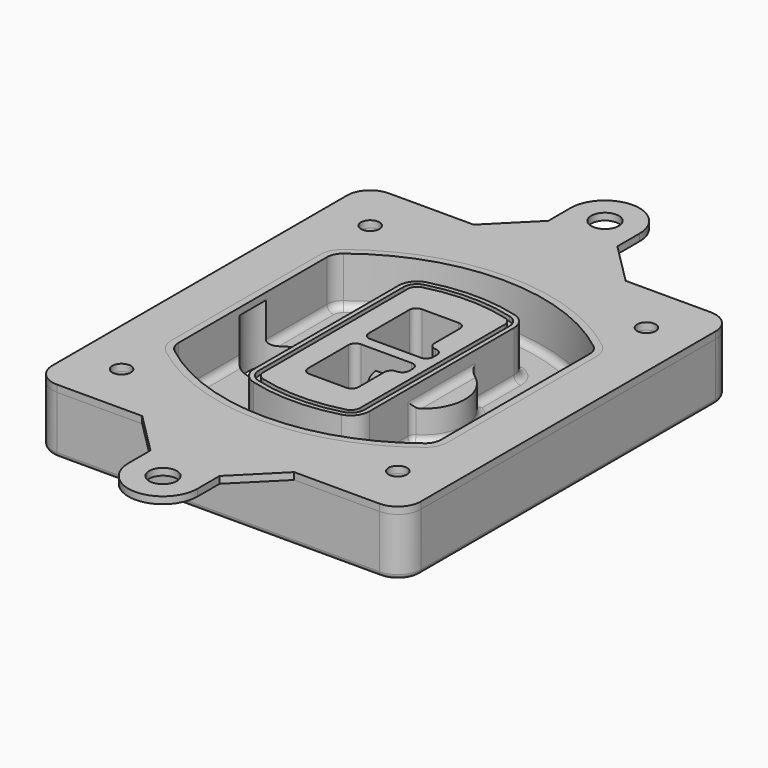
from build123d import *

# Parameters (mm, degrees)
F0_R      = 4
F1_DEPTH  = 25
F2_DEPTH  = 3
F3_DEPTH  = 18
F5_DEPTH  = 21
F6_DEPTH  = 2
F8_DEPTH  = 20
F9_DEPTH  = 16
F10_DEPTH = 25
F7_R      = 6
F7_R_2    = 4
F11_DEPTH = 6
F13_DEPTH = 9
F14_R     = 3
F15_R     = 2
F16_R     = 6
F16_R_2   = 4
F17_DEPTH = 3


with BuildPart() as f1:
    # F0 (on Top) → F1 (new body)
    with BuildSketch(Plane.XY):
        with BuildLine():
            ThreePointArc((-80, -80), (-77.0710678119, -87.0710678119), (-70, -90))
            Line((-70, -90), (70, -90))
            ThreePointArc((70, -90), (77.0710678119, -87.0710678119), (80, -80))
            Line((80, -80), (80, 80))
            ThreePointArc((80, 80), (77.0710678119, 87.0710678119), (70, 90))
            Line((70, 90), (-70, 90))
            ThreePointArc((-70, 90), (-77.0710678119, 87.0710678119), (-80, 80))
            Line((-80, 80), (-80, -80))
        make_face()
        with Locations((-60, -67.5)):
            Circle(F0_R, mode=Mode.SUBTRACT)
        with Locations((60, -67.5)):
            Circle(F0_R, mode=Mode.SUBTRACT)
        with Locations((-60, 67.5)):
            Circle(F0_R, mode=Mode.SUBTRACT)
        with BuildLine():
            ThreePointArc((-64, 40.2934422872), (-62.5820384798, 46.4328484224), (-58.6153846154, 51.3286200352))
            ThreePointArc((-58.6153846154, 51.3286200352), (0, 71.5), (58.6153846154, 51.3286200352))
            ThreePointArc((58.6153846154, 51.3286200352), (62.5820384798, 46.4328484224), (64, 40.2934422872))
            Line((64, 40.2934422872), (64, -40.2934422872))
            ThreePointArc((64, -40.2934422872), (62.5820384798, -46.4328484224), (58.6153846154, -51.3286200352))
            ThreePointArc((58.6153846154, -51.3286200352), (0, -71.5), (-58.6153846154, -51.3286200352))
            ThreePointArc((-58.6153846154, -51.3286200352), (-62.5820384798, -46.4328484224), (-64, -40.2934422872))
            Line((-64, -40.2934422872), (-64, 40.2934422872))
        make_face(mode=Mode.SUBTRACT)
        with Locations((60, 67.5)):
            Circle(F0_R, mode=Mode.SUBTRACT)
        with BuildLine():
            ThreePointArc((58.6153846154, 51.3286200352), (0, 71.5), (-58.6153846154, 51.3286200352))
            ThreePointArc((-58.6153846154, 51.3286200352), (-62.5820384798, 46.4328484224), (-64, 40.2934422872))
            Line((-64, 40.2934422872), (-64, -40.2934422872))
            ThreePointArc((-64, -40.2934422872), (-62.5820384798, -46.4328484224), (-58.6153846154, -51.3286200352))
            ThreePointArc((-58.6153846154, -51.3286200352), (0, -71.5), (58.6153846154, -51.3286200352))
            ThreePointArc((58.6153846154, -51.3286200352), (62.5820384798, -46.4328484224), (64, -40.2934422872))
            Line((64, -40.2934422872), (64, 40.2934422872))
            ThreePointArc((64, 40.2934422872), (62.5820384798, 46.4328484224), (58.6153846154, 51.3286200352))
        make_face()
        with BuildLine():
            Line((-60, -40.2934422872), (-60, 40.2934422872))
            ThreePointArc((-60, 40.2934422872), (-58.9871703427, 44.6787323838), (-56.1538461538, 48.1757121072))
            ThreePointArc((-56.1538461538, 48.1757121072), (0, 67.5), (56.1538461538, 48.1757121072))
            ThreePointArc((56.1538461538, 48.1757121072), (58.9871703427, 44.6787323838), (60, 40.2934422872))
            Line((60, 40.2934422872), (60, -40.2934422872))
            ThreePointArc((60, -40.2934422872), (58.9871703427, -44.6787323838), (56.1538461538, -48.1757121072))
            ThreePointArc((56.1538461538, -48.1757121072), (0, -67.5), (-56.1538461538, -48.1757121072))
            ThreePointArc((-56.1538461538, -48.1757121072), (-58.9871703427, -44.6787323838), (-60, -40.2934422872))
        make_face(mode=Mode.SUBTRACT)
        with BuildLine():
            ThreePointArc((-56.1538461538, 48.1757121072), (-58.9871703427, 44.6787323838), (-60, 40.2934422872))
            Line((-60, 40.2934422872), (-60, -40.2934422872))
            ThreePointArc((-60, -40.2934422872), (-58.9871703427, -44.6787323838), (-56.1538461538, -48.1757121072))
            ThreePointArc((-56.1538461538, -48.1757121072), (0, -67.5), (56.1538461538, -48.1757121072))
            ThreePointArc((56.1538461538, -48.1757121072), (58.9871703427, -44.6787323838), (60, -40.2934422872))
            Line((60, -40.2934422872), (60, 40.2934422872))
            ThreePointArc((60, 40.2934422872), (58.9871703427, 44.6787323838), (56.1538461538, 48.1757121072))
            ThreePointArc((56.1538461538, 48.1757121072), (0, 67.5), (-56.1538461538, 48.1757121072))
        make_face()
        with BuildLine():
            ThreePointArc((54.3076923077, 45.8110311612), (56.2910192399, 43.3631453548), (57, 40.2934422872))
            Line((57, 40.2934422872), (57, -40.2934422872))
            ThreePointArc((57, -40.2934422872), (56.2910192399, -43.3631453548), (54.3076923077, -45.8110311612))
            ThreePointArc((54.3076923077, -45.8110311612), (0, -64.5), (-54.3076923077, -45.8110311612))
            ThreePointArc((-54.3076923077, -45.8110311612), (-56.2910192399, -43.3631453548), (-57, -40.2934422872))
            Line((-57, -40.2934422872), (-57, 40.2934422872))
            ThreePointArc((-57, 40.2934422872), (-56.2910192399, 43.3631453548), (-54.3076923077, 45.8110311612))
            ThreePointArc((-54.3076923077, 45.8110311612), (0, 64.5), (54.3076923077, 45.8110311612))
        make_face(mode=Mode.SUBTRACT)
        with BuildLine():
            Line((57, -40.2934422872), (57, 40.2934422872))
            ThreePointArc((57, 40.2934422872), (56.2910192399, 43.3631453548), (54.3076923077, 45.8110311612))
            ThreePointArc((54.3076923077, 45.8110311612), (0, 64.5), (-54.3076923077, 45.8110311612))
            ThreePointArc((-54.3076923077, 45.8110311612), (-56.2910192399, 43.3631453548), (-57, 40.2934422872))
            Line((-57, 40.2934422872), (-57, -40.2934422872))
            ThreePointArc((-57, -40.2934422872), (-56.2910192399, -43.3631453548), (-54.3076923077, -45.8110311612))
            ThreePointArc((-54.3076923077, -45.8110311612), (0, -64.5), (54.3076923077, -45.8110311612))
            ThreePointArc((54.3076923077, -45.8110311612), (56.2910192399, -43.3631453548), (57, -40.2934422872))
        make_face()
    extrude(amount=-F1_DEPTH)

    # F0 (on Top) → F2 (join)
    with BuildSketch(Plane.XY):
        with BuildLine():
            ThreePointArc((-56.1538461538, 48.1757121072), (-58.9871703427, 44.6787323838), (-60, 40.2934422872))
            Line((-60, 40.2934422872), (-60, -40.2934422872))
            ThreePointArc((-60, -40.2934422872), (-58.9871703427, -44.6787323838), (-56.1538461538, -48.1757121072))
            ThreePointArc((-56.1538461538, -48.1757121072), (0, -67.5), (56.1538461538, -48.1757121072))
            ThreePointArc((56.1538461538, -48.1757121072), (58.9871703427, -44.6787323838), (60, -40.2934422872))
            Line((60, -40.2934422872), (60, 40.2934422872))
            ThreePointArc((60, 40.2934422872), (58.9871703427, 44.6787323838), (56.1538461538, 48.1757121072))
            ThreePointArc((56.1538461538, 48.1757121072), (0, 67.5), (-56.1538461538, 48.1757121072))
        make_face()
        with BuildLine():
            ThreePointArc((54.3076923077, 45.8110311612), (56.2910192399, 43.3631453548), (57, 40.2934422872))
            Line((57, 40.2934422872), (57, -40.2934422872))
            ThreePointArc((57, -40.2934422872), (56.2910192399, -43.3631453548), (54.3076923077, -45.8110311612))
            ThreePointArc((54.3076923077, -45.8110311612), (0, -64.5), (-54.3076923077, -45.8110311612))
            ThreePointArc((-54.3076923077, -45.8110311612), (-56.2910192399, -43.3631453548), (-57, -40.2934422872))
            Line((-57, -40.2934422872), (-57, 40.2934422872))
            ThreePointArc((-57, 40.2934422872), (-56.2910192399, 43.3631453548), (-54.3076923077, 45.8110311612))
            ThreePointArc((-54.3076923077, 45.8110311612), (0, 64.5), (54.3076923077, 45.8110311612))
        make_face(mode=Mode.SUBTRACT)
    extrude(amount=F2_DEPTH)

    # F0 (on Top) → F3 (cut)
    with BuildSketch(Plane.XY):
        with BuildLine():
            Line((57, -40.2934422872), (57, 40.2934422872))
            ThreePointArc((57, 40.2934422872), (56.2910192399, 43.3631453548), (54.3076923077, 45.8110311612))
            ThreePointArc((54.3076923077, 45.8110311612), (0, 64.5), (-54.3076923077, 45.8110311612))
            ThreePointArc((-54.3076923077, 45.8110311612), (-56.2910192399, 43.3631453548), (-57, 40.2934422872))
            Line((-57, 40.2934422872), (-57, -40.2934422872))
            ThreePointArc((-57, -40.2934422872), (-56.2910192399, -43.3631453548), (-54.3076923077, -45.8110311612))
            ThreePointArc((-54.3076923077, -45.8110311612), (0, -64.5), (54.3076923077, -45.8110311612))
            ThreePointArc((54.3076923077, -45.8110311612), (56.2910192399, -43.3631453548), (57, -40.2934422872))
        make_face()
    extrude(amount=-F3_DEPTH, mode=Mode.SUBTRACT)

    # F4 (on face) → F5 (join, through all)
    with BuildSketch(Plane.XY.offset(3)):
        with BuildLine():
            ThreePointArc((-25, -39.2465276821), (-23.3511545998, -44.1109737193), (-19.0842911877, -46.9702398883))
            ThreePointArc((-19.0842911877, -46.9702398883), (0, -49.5), (19.0842911877, -46.9702398883))
            ThreePointArc((19.0842911877, -46.9702398883), (23.3511545998, -44.1109737193), (25, -39.2465276821))
            Line((25, -39.2465276821), (25, 39.2465276821))
            ThreePointArc((25, 39.2465276821), (23.3511545998, 44.1109737193), (19.0842911877, 46.9702398883))
            ThreePointArc((19.0842911877, 46.9702398883), (0, 49.5), (-19.0842911877, 46.9702398883))
            ThreePointArc((-19.0842911877, 46.9702398883), (-23.3511545998, 44.1109737193), (-25, 39.2465276821))
            Line((-25, 39.2465276821), (-25, -39.2465276821))
        make_face()
        with BuildLine():
            ThreePointArc((18.5632183908, 45.0393118368), (21.7633659499, 42.89486221), (23, 39.2465276821))
            Line((23, 39.2465276821), (23, -39.2465276821))
            ThreePointArc((23, -39.2465276821), (21.7633659499, -42.89486221), (18.5632183908, -45.0393118368))
            ThreePointArc((18.5632183908, -45.0393118368), (0, -47.5), (-18.5632183908, -45.0393118368))
            ThreePointArc((-18.5632183908, -45.0393118368), (-21.7633659499, -42.89486221), (-23, -39.2465276821))
            Line((-23, -39.2465276821), (-23, 39.2465276821))
            ThreePointArc((-23, 39.2465276821), (-21.7633659499, 42.89486221), (-18.5632183908, 45.0393118368))
            ThreePointArc((-18.5632183908, 45.0393118368), (0, 47.5), (18.5632183908, 45.0393118368))
        make_face(mode=Mode.SUBTRACT)
        with BuildLine():
            Line((23, -39.2465276821), (23, 39.2465276821))
            ThreePointArc((23, 39.2465276821), (21.7633659499, 42.89486221), (18.5632183908, 45.0393118368))
            ThreePointArc((18.5632183908, 45.0393118368), (0, 47.5), (-18.5632183908, 45.0393118368))
            ThreePointArc((-18.5632183908, 45.0393118368), (-21.7633659499, 42.89486221), (-23, 39.2465276821))
            Line((-23, 39.2465276821), (-23, -39.2465276821))
            ThreePointArc((-23, -39.2465276821), (-21.7633659499, -42.89486221), (-18.5632183908, -45.0393118368))
            ThreePointArc((-18.5632183908, -45.0393118368), (0, -47.5), (18.5632183908, -45.0393118368))
            ThreePointArc((18.5632183908, -45.0393118368), (21.7633659499, -42.89486221), (23, -39.2465276821))
        make_face()
        with BuildLine():
            ThreePointArc((18.0421455939, 43.1083837852), (20.1755772999, 41.6787507007), (21, 39.2465276821))
            Line((21, 39.2465276821), (21, -39.2465276821))
            ThreePointArc((21, -39.2465276821), (20.1755772999, -41.6787507007), (18.0421455939, -43.1083837852))
            ThreePointArc((18.0421455939, -43.1083837852), (0, -45.5), (-18.0421455939, -43.1083837852))
            ThreePointArc((-18.0421455939, -43.1083837852), (-20.1755772999, -41.6787507007), (-21, -39.2465276821))
            Line((-21, -39.2465276821), (-21, 39.2465276821))
            ThreePointArc((-21, 39.2465276821), (-20.1755772999, 41.6787507007), (-18.0421455939, 43.1083837852))
            ThreePointArc((-18.0421455939, 43.1083837852), (0, 45.5), (18.0421455939, 43.1083837852))
        make_face(mode=Mode.SUBTRACT)
        with BuildLine():
            Line((21, -39.2465276821), (21, 39.2465276821))
            ThreePointArc((21, 39.2465276821), (20.1755772999, 41.6787507007), (18.0421455939, 43.1083837852))
            ThreePointArc((18.0421455939, 43.1083837852), (0, 45.5), (-18.0421455939, 43.1083837852))
            ThreePointArc((-18.0421455939, 43.1083837852), (-20.1755772999, 41.6787507007), (-21, 39.2465276821))
            Line((-21, 39.2465276821), (-21, -39.2465276821))
            ThreePointArc((-21, -39.2465276821), (-20.1755772999, -41.6787507007), (-18.0421455939, -43.1083837852))
            ThreePointArc((-18.0421455939, -43.1083837852), (0, -45.5), (18.0421455939, -43.1083837852))
            ThreePointArc((18.0421455939, -43.1083837852), (20.1755772999, -41.6787507007), (21, -39.2465276821))
        make_face()
        with BuildLine():
            Line((-8, -2.5), (14, -2.5))
            ThreePointArc((14, -2.5), (16.1213203436, -3.3786796564), (17, -5.5))
            Line((17, -5.5), (17, -7.5))
            ThreePointArc((17, -7.5), (16.1213203436, -9.6213203436), (14, -10.5))
            ThreePointArc((14, -10.5), (11.8786796564, -11.3786796564), (11, -13.5))
            Line((11, -13.5), (11, -27.5))
            ThreePointArc((11, -27.5), (10.1213203436, -29.6213203436), (8, -30.5))
            Line((8, -30.5), (-8, -30.5))
            ThreePointArc((-8, -30.5), (-10.1213203436, -29.6213203436), (-11, -27.5))
            Line((-11, -27.5), (-11, -5.5))
            ThreePointArc((-11, -5.5), (-10.1213203436, -3.3786796564), (-8, -2.5))
        make_face(mode=Mode.SUBTRACT)
        with BuildLine():
            ThreePointArc((-8, 2.5), (-10.1213203436, 3.3786796564), (-11, 5.5))
            Line((-11, 5.5), (-11, 27.5))
            ThreePointArc((-11, 27.5), (-10.1213203436, 29.6213203436), (-8, 30.5))
            Line((-8, 30.5), (8, 30.5))
            ThreePointArc((8, 30.5), (10.1213203436, 29.6213203436), (11, 27.5))
            Line((11, 27.5), (11, 13.5))
            ThreePointArc((11, 13.5), (11.8786796564, 11.3786796564), (14, 10.5))
            ThreePointArc((14, 10.5), (16.1213203436, 9.6213203436), (17, 7.5))
            Line((17, 7.5), (17, 5.5))
            ThreePointArc((17, 5.5), (16.1213203436, 3.3786796564), (14, 2.5))
            Line((14, 2.5), (-8, 2.5))
        make_face(mode=Mode.SUBTRACT)
    extrude(amount=-F5_DEPTH)

    # F4 (on face) → F6 (cut)
    with BuildSketch(Plane.XY.offset(3)):
        with BuildLine():
            Line((23, -39.2465276821), (23, 39.2465276821))
            ThreePointArc((23, 39.2465276821), (21.7633659499, 42.89486221), (18.5632183908, 45.0393118368))
            ThreePointArc((18.5632183908, 45.0393118368), (0, 47.5), (-18.5632183908, 45.0393118368))
            ThreePointArc((-18.5632183908, 45.0393118368), (-21.7633659499, 42.89486221), (-23, 39.2465276821))
            Line((-23, 39.2465276821), (-23, -39.2465276821))
            ThreePointArc((-23, -39.2465276821), (-21.7633659499, -42.89486221), (-18.5632183908, -45.0393118368))
            ThreePointArc((-18.5632183908, -45.0393118368), (0, -47.5), (18.5632183908, -45.0393118368))
            ThreePointArc((18.5632183908, -45.0393118368), (21.7633659499, -42.89486221), (23, -39.2465276821))
        make_face()
        with BuildLine():
            ThreePointArc((18.0421455939, 43.1083837852), (20.1755772999, 41.6787507007), (21, 39.2465276821))
            Line((21, 39.2465276821), (21, -39.2465276821))
            ThreePointArc((21, -39.2465276821), (20.1755772999, -41.6787507007), (18.0421455939, -43.1083837852))
            ThreePointArc((18.0421455939, -43.1083837852), (0, -45.5), (-18.0421455939, -43.1083837852))
            ThreePointArc((-18.0421455939, -43.1083837852), (-20.1755772999, -41.6787507007), (-21, -39.2465276821))
            Line((-21, -39.2465276821), (-21, 39.2465276821))
            ThreePointArc((-21, 39.2465276821), (-20.1755772999, 41.6787507007), (-18.0421455939, 43.1083837852))
            ThreePointArc((-18.0421455939, 43.1083837852), (0, 45.5), (18.0421455939, 43.1083837852))
        make_face(mode=Mode.SUBTRACT)
    extrude(amount=-F6_DEPTH, mode=Mode.SUBTRACT)

    # F7 (on face) → F8 (join)
    with BuildSketch(Plane(origin=(0, 0, -25), x_dir=(1, 0, 0), z_dir=(0, 0, -1))):
        with BuildLine():
            ThreePointArc((3.28842436, 0), (16.7567035675, 13.4682792075), (30.224982775, 0))
            Line((30.224982775, 0), (35.224982775, 0))
            ThreePointArc((35.224982775, 0), (16.7567035675, 18.4682792075), (-1.71157564, 0))
            Line((-1.71157564, 0), (3.28842436, 0))
        make_face()
        with BuildLine():
            Line((3.28842436, 0), (30.224982775, 0))
            ThreePointArc((30.224982775, 0), (16.7567035675, 13.4682792075), (3.28842436, 0))
        make_face()
        with BuildLine():
            ThreePointArc((3.28842436, 0), (16.7567035675, -13.4682792075), (30.224982775, 0))
            Line((30.224982775, 0), (3.28842436, 0))
        make_face()
        with BuildLine():
            Line((35.224982775, 0), (30.224982775, 0))
            ThreePointArc((30.224982775, 0), (16.7567035675, -13.4682792075), (3.28842436, 0))
            Line((3.28842436, 0), (-1.71157564, 0))
            ThreePointArc((-1.71157564, 0), (16.7567035675, -18.4682792075), (35.224982775, 0))
        make_face()
    extrude(amount=-F8_DEPTH)

    # F7 (on face) → F9 (cut)
    with BuildSketch(Plane(origin=(0, 0, -25), x_dir=(1, 0, 0), z_dir=(0, 0, -1))):
        with BuildLine():
            Line((3.28842436, 0), (30.224982775, 0))
            ThreePointArc((30.224982775, 0), (16.7567035675, 13.4682792075), (3.28842436, 0))
        make_face()
        with BuildLine():
            ThreePointArc((3.28842436, 0), (16.7567035675, -13.4682792075), (30.224982775, 0))
            Line((30.224982775, 0), (3.28842436, 0))
        make_face()
    extrude(amount=-F9_DEPTH, mode=Mode.SUBTRACT)

    # F7 (on face) → F10 (cut)
    with BuildSketch(Plane(origin=(0, 0, -25), x_dir=(1, 0, 0), z_dir=(0, 0, -1))):
        with BuildLine():
            Line((-59.0318229325, 0), (-32.0952645175, 0))
            ThreePointArc((-32.0952645175, 0), (-45.563543725, 13.4682792075), (-59.0318229325, 0))
        make_face()
        with BuildLine():
            ThreePointArc((-59.0318229325, 0), (-45.563543725, -13.4682792075), (-32.0952645175, 0))
            Line((-32.0952645175, 0), (-59.0318229325, 0))
        make_face()
    extrude(amount=-F10_DEPTH, mode=Mode.SUBTRACT)

    # F7 (on face) → F11 (cut)
    with BuildSketch(Plane(origin=(0, 0, -25), x_dir=(1, 0, 0), z_dir=(0, 0, -1))):
        with Locations((60, -67.5)):
            Circle(F7_R)
        with Locations((60, -67.5)):
            Circle(F7_R_2, mode=Mode.SUBTRACT)
        with Locations((60, -67.5)):
            Circle(F7_R)
        with Locations((60, -67.5)):
            Circle(F7_R_2, mode=Mode.SUBTRACT)
        with Locations((-60, -67.5)):
            Circle(F7_R)
        with Locations((-60, -67.5)):
            Circle(F7_R_2, mode=Mode.SUBTRACT)
        with Locations((-60, -67.5)):
            Circle(F7_R)
        with Locations((-60, -67.5)):
            Circle(F7_R_2, mode=Mode.SUBTRACT)
        with Locations((-60, 67.5)):
            Circle(F7_R)
        with Locations((-60, 67.5)):
            Circle(F7_R_2, mode=Mode.SUBTRACT)
        with Locations((-60, 67.5)):
            Circle(F7_R)
        with Locations((-60, 67.5)):
            Circle(F7_R_2, mode=Mode.SUBTRACT)
        with Locations((60, 67.5)):
            Circle(F7_R)
        with Locations((60, 67.5)):
            Circle(F7_R_2, mode=Mode.SUBTRACT)
        with Locations((60, 67.5)):
            Circle(F7_R)
        with Locations((60, 67.5)):
            Circle(F7_R_2, mode=Mode.SUBTRACT)
    extrude(amount=-F11_DEPTH, mode=Mode.SUBTRACT)

    # F12 (on face) → F13 (cut, through all)
    with BuildSketch(Plane(origin=(0, 0, -9), x_dir=(1, 0, 0), z_dir=(0, 0, -1))):
        with BuildLine():
            Line((11, 13.5), (11, 17.5481537753))
            ThreePointArc((11, 17.5481537753), (2.5696536419, 11.8239143813), (-1.5415842455, 2.5))
            Line((-1.5415842455, 2.5), (3.5224848595, 2.5))
            ThreePointArc((3.5224848595, 2.5), (6.1857188154, 8.3455872281), (11.2536447004, 12.2927168648))
            ThreePointArc((11.2536447004, 12.2927168648), (11.0640958889, 12.8831798879), (11, 13.5))
        make_face()
        with BuildLine():
            ThreePointArc((11.2536447004, -12.2927168648), (6.1857188154, -8.3455872281), (3.5224848595, -2.5))
            Line((3.5224848595, -2.5), (-1.5415842455, -2.5))
            ThreePointArc((-1.5415842455, -2.5), (2.5696536419, -11.8239143813), (11, -17.5481537753))
            Line((11, -17.5481537753), (11, -13.5))
            ThreePointArc((11, -13.5), (11.0640958889, -12.8831798879), (11.2536447004, -12.2927168648))
        make_face()
        with BuildLine():
            ThreePointArc((11.2536447004, 12.2927168648), (6.1857188154, 8.3455872281), (3.5224848595, 2.5))
            Line((3.5224848595, 2.5), (14, 2.5))
            ThreePointArc((14, 2.5), (16.1213203436, 3.3786796564), (17, 5.5))
            Line((17, 5.5), (17, 7.5))
            ThreePointArc((17, 7.5), (16.1213203436, 9.6213203436), (14, 10.5))
            ThreePointArc((14, 10.5), (12.3601599782, 10.9878446101), (11.2536447004, 12.2927168648))
        make_face()
        with BuildLine():
            Line((14, -2.5), (3.5224848595, -2.5))
            ThreePointArc((3.5224848595, -2.5), (6.1857188154, -8.3455872281), (11.2536447004, -12.2927168648))
            ThreePointArc((11.2536447004, -12.2927168648), (12.3601599782, -10.9878446101), (14, -10.5))
            ThreePointArc((14, -10.5), (16.1213203436, -9.6213203436), (17, -7.5))
            Line((17, -7.5), (17, -5.5))
            ThreePointArc((17, -5.5), (16.1213203436, -3.3786796564), (14, -2.5))
        make_face()
    extrude(amount=F13_DEPTH, mode=Mode.SUBTRACT)

    # F14
    f14_edges = [f1.edges().sort_by_distance(p)[0] for p in [
        (-57, -23.703476, -18),
        (-57, 23.703476, -18),
        (25, 0, -5),
        (25, 16.526506, -11.5),
        (25, -16.526506, -11.5),
        (25, -27.886517, -18),
        (35.224983, 0, -18),
    ]]
    fillet(f14_edges, radius=F14_R)

    # F15
    f15_edges = [f1.edges().sort_by_distance(p)[0] for p in [
        (0, -90, -25),
    ]]
    fillet(f15_edges, radius=F15_R)


with BuildPart() as f17:
    # F16 (on face) → F17 (new body, through all)
    with BuildSketch(Plane.XY):
        with BuildLine():
            ThreePointArc((14.9715538621, 120), (-0.0284461379, 135), (-15.0284461379, 120))
            Line((-15.0284461379, 120), (-15.0284461379, 108))
            Line((-15.0284461379, 108), (-33.0284461379, 90))
            Line((-33.0284461379, 90), (32.9715538621, 90))
            Line((32.9715538621, 90), (14.9715538621, 108))
            Line((14.9715538621, 108), (14.9715538621, 120))
        make_face()
        with Locations((0, 120)):
            Circle(F16_R, mode=Mode.SUBTRACT)
        with BuildLine():
            Line((32.9715538621, -90), (-33.0284461379, -90))
            Line((-33.0284461379, -90), (-15.0284461379, -108))
            Line((-15.0284461379, -108), (-15.0284461379, -120))
            ThreePointArc((-15.0284461379, -120), (-0.0284461379, -135), (14.9715538621, -120))
            Line((14.9715538621, -120), (14.9715538621, -108))
            Line((14.9715538621, -108), (32.9715538621, -90))
        make_face()
        with Locations((0, -120)):
            Circle(F16_R, mode=Mode.SUBTRACT)
        with BuildLine():
            Line((32.9715538621, 90), (-33.0284461379, 90))
            Line((-33.0284461379, 90), (-70, 90))
            ThreePointArc((-70, 90), (-77.0710678119, 87.0710678119), (-80, 80))
            Line((-80, 80), (-80, -80))
            ThreePointArc((-80, -80), (-77.0710678119, -87.0710678119), (-70, -90))
            Line((-70, -90), (-33.0284461379, -90))
            Line((-33.0284461379, -90), (32.9715538621, -90))
            Line((32.9715538621, -90), (70, -90))
            ThreePointArc((70, -90), (77.0710678119, -87.0710678119), (80, -80))
            Line((80, -80), (80, 80))
            ThreePointArc((80, 80), (77.0710678119, 87.0710678119), (70, 90))
            Line((70, 90), (32.9715538621, 90))
        make_face()
        with Locations((-60, -67.5)):
            Circle(F16_R_2, mode=Mode.SUBTRACT)
        with Locations((60, -67.5)):
            Circle(F16_R_2, mode=Mode.SUBTRACT)
        with Locations((-60, 67.5)):
            Circle(F16_R_2, mode=Mode.SUBTRACT)
        with BuildLine():
            ThreePointArc((-60, 40.2934422872), (-58.9871703427, 44.6787323838), (-56.1538461538, 48.1757121072))
            ThreePointArc((-56.1538461538, 48.1757121072), (0, 67.5), (56.1538461538, 48.1757121072))
            ThreePointArc((56.1538461538, 48.1757121072), (58.9871703427, 44.6787323838), (60, 40.2934422872))
            Line((60, 40.2934422872), (60, -40.2934422872))
            ThreePointArc((60, -40.2934422872), (58.9871703427, -44.6787323838), (56.1538461538, -48.1757121072))
            ThreePointArc((56.1538461538, -48.1757121072), (0, -67.5), (-56.1538461538, -48.1757121072))
            ThreePointArc((-56.1538461538, -48.1757121072), (-58.9871703427, -44.6787323838), (-60, -40.2934422872))
            Line((-60, -40.2934422872), (-60, 40.2934422872))
        make_face(mode=Mode.SUBTRACT)
        with Locations((60, 67.5)):
            Circle(F16_R_2, mode=Mode.SUBTRACT)
    extrude(amount=F17_DEPTH)


solid = Compound([f1.part, f17.part])
